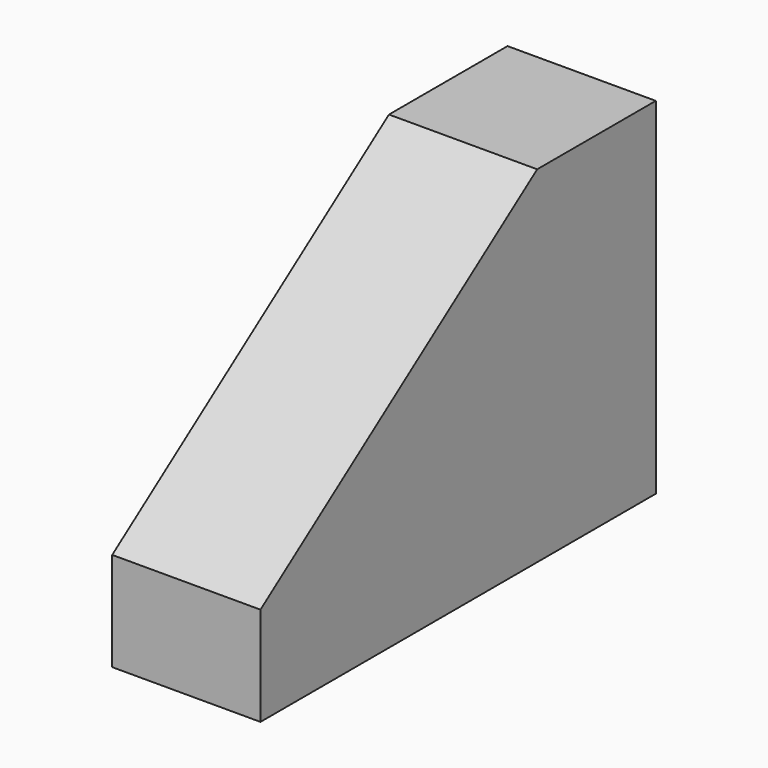
from build123d import *

# Parameters (mm, degrees)
F1_DEPTH = 19.05


with BuildPart() as f1:
    # F0 (on Right) → F1 (new body)
    with BuildSketch(Plane.YZ):
        Polygon((-33.966343, -12.6556), (-33.966343, -25.3556), (29.533657, -25.3556), (29.533657, 19.0944), (10.483657, 19.0944), align=None)
    extrude(amount=-F1_DEPTH)


solid = f1.part
